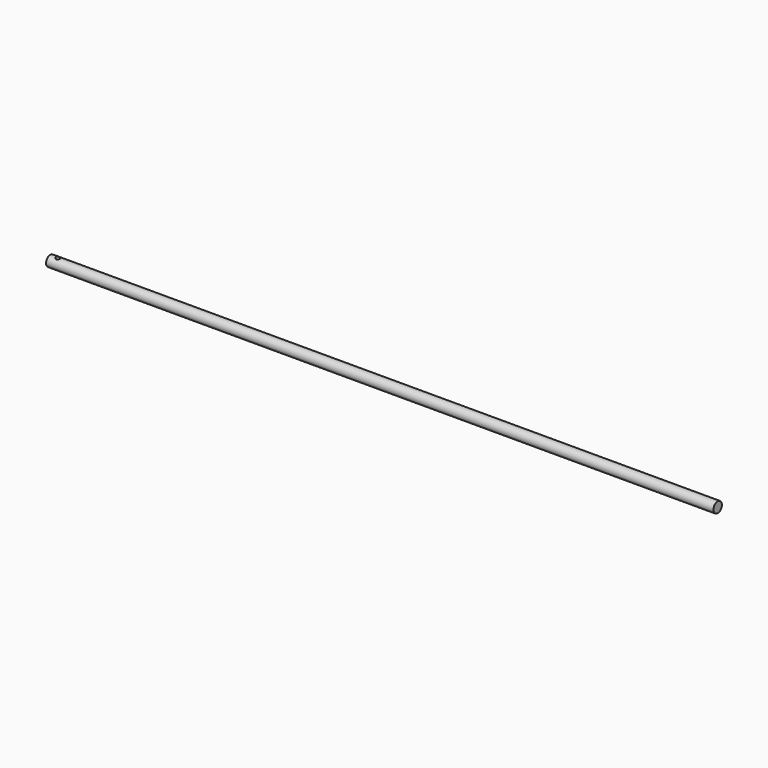
from build123d import *

# Parameters (mm, degrees)
F0_R          = 3.175
F1_DEPTH      = 200.025
F2_R          = 1.3890625
F3_DEPTH      = 3.175
F3_DEPTH_BACK = 3.175


with BuildPart() as f1:
    # F0 (on Right) → F1 (new body, symmetric)
    with BuildSketch(Plane.YZ):
        Circle(F0_R)
    extrude(amount=F1_DEPTH, both=True)

    # F2 (on Top) → F3 (cut, two sides)
    with BuildSketch(Plane.XY) as f3_sk:
        with Locations((-195.2625, 0)):
            Circle(F2_R)
    extrude(amount=-F3_DEPTH, mode=Mode.SUBTRACT)
    extrude(f3_sk.sketch, amount=F3_DEPTH_BACK, mode=Mode.SUBTRACT)


solid = f1.part
